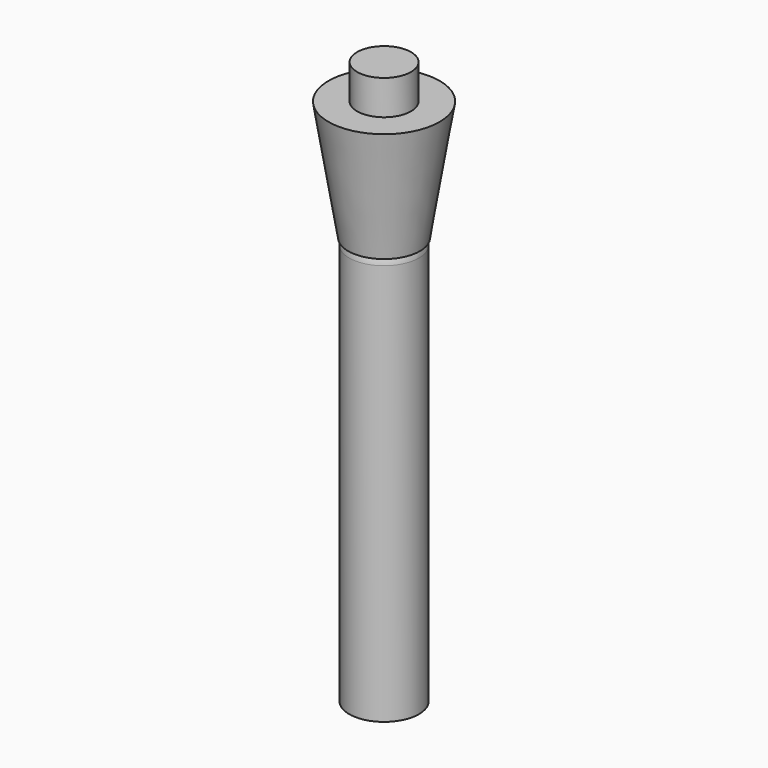
from build123d import *


with BuildPart() as f1:
    # F0 (on Front) → F1 (revolve)
    with BuildSketch(Plane.XZ):
        with BuildLine():
            Line((0, 189.304605), (0, 0))
            Line((0, 0), (13.176901, 0))
            Line((13.176901, 0), (13.176901, 151.861727))
            ThreePointArc((13.176901, 151.861727), (11.546029, 156.570623), (7.352101, 159.262165))
            Line((7.352101, 159.262165), (7.352101, 189.304605))
            Line((7.352101, 189.304605), (0, 189.304605))
        make_face()
    revolve(axis=Axis((0, 0, 94.652303), (0, 0, -1)))


with BuildPart() as f3:
    # F2 (on Front) → F3 (revolve)
    with BuildSketch(Plane.XZ):
        Polygon((0, 154.283062), (13.573603, 154.283062), (21.019254, 199.728787), (10.192482, 199.728787), (10.192482, 212.827846), (0, 212.827846), align=None)
    revolve(axis=Axis((0, 0, 183.555454), (0, 0, -1)))


solid = Compound([f1.part, f3.part])
